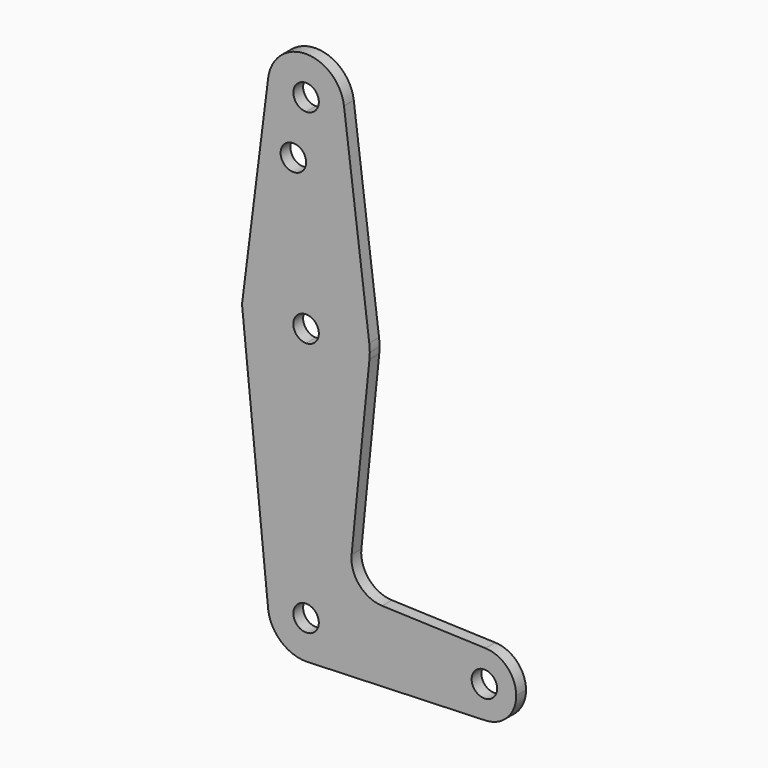
from build123d import *

# Parameters (mm, degrees)
F0_R     = 3.175
F1_DEPTH = 3.048
F2_DEPTH = 3.048


with BuildPart() as f1:
    # F0 (on Front) → F1 (new body)
    with BuildSketch(Plane.XZ):
        with BuildLine():
            ThreePointArc((0, 104.775), (6.7351920908, 107.5648079092), (9.525, 114.3))
            ThreePointArc((9.525, 114.3), (9.5063048942, 114.896483242), (9.4502929642, 115.490625))
            ThreePointArc((9.4502929642, 115.490625), (0, 123.825), (-9.4502929642, 115.490625))
            ThreePointArc((-9.4502929642, 115.490625), (-7.14375, 107.9998046905), (0, 104.775))
        make_face()
        with BuildLine():
            ThreePointArc((3.175, 114.3), (2.2450640303, 112.0549359697), (0, 111.125))
            ThreePointArc((0, 111.125), (-2.2450640303, 116.5450640303), (3.175, 114.3))
        make_face(mode=Mode.SUBTRACT)
        with BuildLine():
            ThreePointArc((9.4502929642, 115.490625), (9.5063048942, 114.896483242), (9.525, 114.3))
            ThreePointArc((9.525, 114.3), (6.7351920908, 107.5648079092), (0, 104.775))
            Line((0, 104.775), (0, 100.0252))
            Line((0, 100.0252), (0, 79.375))
            ThreePointArc((0, 79.375), (10.5003255158, 75.40625), (15.7504882737, 65.484375))
            Line((15.7504882737, 65.484375), (9.4502929642, 115.490625))
        make_face()
        with BuildLine():
            Line((0, 100.0252), (0, 104.775))
            ThreePointArc((0, 104.775), (-7.14375, 107.9998046905), (-9.4502929642, 115.490625))
            Line((-9.4502929642, 115.490625), (-15.7504882747, 65.484374992))
            ThreePointArc((-15.7504882747, 65.484374992), (-10.5003255188, 75.4062499973), (0, 79.375))
            Line((0, 79.375), (0, 100.0252))
        make_face()
        with Locations((-3.175, 100.0252)):
            Circle(F0_R, mode=Mode.SUBTRACT)
        with BuildLine():
            ThreePointArc((15.875, 63.5), (15.8438414904, 64.4941387366), (15.7504882737, 65.484375))
            ThreePointArc((15.7504882737, 65.484375), (10.5003255158, 75.40625), (0, 79.375))
            Line((0, 79.375), (0, 66.675))
            ThreePointArc((0, 66.675), (2.2450640303, 65.7450640303), (3.175, 63.5))
            ThreePointArc((3.175, 63.5), (2.2450640303, 61.2549359697), (0, 60.325))
            Line((0, 60.325), (0, 47.625))
            ThreePointArc((0, 47.625), (10.6492737428, 51.7267849017), (15.7954255641, 61.9125))
            ThreePointArc((15.7954255641, 61.9125), (15.8550939106, 62.7052534459), (15.875, 63.5))
        make_face()
        with BuildLine():
            ThreePointArc((0, 79.375), (-10.5003255188, 75.4062499973), (-15.7504882747, 65.484374992))
            ThreePointArc((-15.7504882747, 65.484374992), (-15.8737438174, 63.6997053324), (-15.795425534, 61.9124997009))
            ThreePointArc((-15.795425534, 61.9124997009), (-10.6492736314, 51.7267848009), (0, 47.625))
            Line((0, 47.625), (0, 60.325))
            ThreePointArc((0, 60.325), (-3.175, 63.5), (0, 66.675))
            Line((0, 66.675), (0, 79.375))
        make_face()
        with BuildLine():
            ThreePointArc((-15.795425534, 61.9124997009), (-15.8737438174, 63.6997053324), (-15.7504882747, 65.484374992))
            Line((-15.7504882747, 65.484374992), (-15.9751747256, 63.7009815757))
            Line((-15.9751747256, 63.7009815757), (-15.795425534, 61.9124997009))
        make_face()
        with BuildLine():
            ThreePointArc((0, 47.625), (-10.6492736314, 51.7267848009), (-15.795425534, 61.9124997009))
            Line((-15.795425534, 61.9124997009), (-9.5725053384, -0.0047744662))
            Line((-9.5725053384, -0.0047744662), (-9.525, 0))
            ThreePointArc((-9.525, 0), (-6.7351920908, 6.7351920908), (0, 9.525))
            Line((0, 9.525), (0, 47.625))
        make_face()
        with BuildLine():
            Line((11.3411865923, 17.5933818124), (15.7954255641, 61.9125))
            ThreePointArc((15.7954255641, 61.9125), (10.6492737428, 51.7267849017), (0, 47.625))
            Line((0, 47.625), (0, 9.525))
            ThreePointArc((0, 9.525), (6.7351920908, 6.7351920908), (9.525, 0))
            Line((9.525, 0), (36.5125, 0))
            ThreePointArc((36.5125, 0), (38.9384772185, 5.7120069047), (44.7334821429, 7.9324362036))
            Line((44.7334821429, 7.9324362036), (18.9676000005, 8.8532337108))
            ThreePointArc((18.9676000005, 8.8532337108), (13.2611998974, 11.5713591498), (11.3411865923, 17.5933818124))
        make_face()
        with BuildLine():
            Line((0, 3.175), (0, 9.525))
            ThreePointArc((0, 9.525), (-6.7351920908, 6.7351920908), (-9.525, 0))
            ThreePointArc((-9.525, 0), (-6.7351920908, -6.7351920908), (0, -9.525))
            Line((0, -9.525), (0.6773435479, -9.500885786))
            ThreePointArc((0.6773435479, -9.500885786), (6.9705567315, -6.4912990883), (9.525, 0))
            Line((9.525, 0), (3.175, 0))
            ThreePointArc((3.175, 0), (-2.2450640303, -2.2450640303), (0, 3.175))
        make_face()
        with BuildLine():
            Line((36.5125, 0), (9.525, 0))
            ThreePointArc((9.525, 0), (6.9705567315, -6.4912990883), (0.6773435479, -9.500885786))
            Line((0.6773435479, -9.500885786), (44.7324052746, -7.9324746146))
            ThreePointArc((44.7324052746, -7.9324746146), (38.9380895153, -5.7116327839), (36.5125, 0))
        make_face()
        with BuildLine():
            Line((0.6773435479, -9.500885786), (0, -9.525))
            ThreePointArc((0, -9.525), (0.3388863295, -9.5189695375), (0.6773435479, -9.500885786))
        make_face()
        with BuildLine():
            ThreePointArc((52.3875, 0), (50.1620069047, 5.5115227815), (44.7334821429, 7.9324362036))
            ThreePointArc((44.7334821429, 7.9324362036), (38.9384772185, 5.7120069047), (36.5125, 0))
            ThreePointArc((36.5125, 0), (38.9380895153, -5.7116327839), (44.7324052746, -7.9324746146))
            ThreePointArc((44.7324052746, -7.9324746146), (50.1616327839, -5.5119104847), (52.3875, 0))
        make_face()
        with BuildLine():
            ThreePointArc((47.625, 0), (44.45, -3.175), (41.275, 0))
            ThreePointArc((41.275, 0), (44.45, 3.175), (47.625, 0))
        make_face(mode=Mode.SUBTRACT)
        with BuildLine():
            ThreePointArc((9.525, 0), (6.7351920908, 6.7351920908), (0, 9.525))
            Line((0, 9.525), (0, 3.175))
            ThreePointArc((0, 3.175), (2.2450640303, 2.2450640303), (3.175, 0))
            Line((3.175, 0), (9.525, 0))
        make_face()
    extrude(amount=F1_DEPTH)

    # F0 (on Front) → F2 (join)
    with BuildSketch(Plane.XZ):
        with BuildLine():
            ThreePointArc((0, 104.775), (6.7351920908, 107.5648079092), (9.525, 114.3))
            ThreePointArc((9.525, 114.3), (9.5063048942, 114.896483242), (9.4502929642, 115.490625))
            ThreePointArc((9.4502929642, 115.490625), (0, 123.825), (-9.4502929642, 115.490625))
            ThreePointArc((-9.4502929642, 115.490625), (-7.14375, 107.9998046905), (0, 104.775))
        make_face()
        with BuildLine():
            ThreePointArc((3.175, 114.3), (2.2450640303, 112.0549359697), (0, 111.125))
            ThreePointArc((0, 111.125), (-2.2450640303, 116.5450640303), (3.175, 114.3))
        make_face(mode=Mode.SUBTRACT)
        with BuildLine():
            ThreePointArc((9.4502929642, 115.490625), (9.5063048942, 114.896483242), (9.525, 114.3))
            ThreePointArc((9.525, 114.3), (6.7351920908, 107.5648079092), (0, 104.775))
            Line((0, 104.775), (0, 100.0252))
            Line((0, 100.0252), (0, 79.375))
            ThreePointArc((0, 79.375), (10.5003255158, 75.40625), (15.7504882737, 65.484375))
            Line((15.7504882737, 65.484375), (9.4502929642, 115.490625))
        make_face()
        with BuildLine():
            Line((0, 100.0252), (0, 104.775))
            ThreePointArc((0, 104.775), (-7.14375, 107.9998046905), (-9.4502929642, 115.490625))
            Line((-9.4502929642, 115.490625), (-15.7504882747, 65.484374992))
            ThreePointArc((-15.7504882747, 65.484374992), (-10.5003255188, 75.4062499973), (0, 79.375))
            Line((0, 79.375), (0, 100.0252))
        make_face()
        with Locations((-3.175, 100.0252)):
            Circle(F0_R, mode=Mode.SUBTRACT)
        with BuildLine():
            ThreePointArc((15.875, 63.5), (15.8438414904, 64.4941387366), (15.7504882737, 65.484375))
            ThreePointArc((15.7504882737, 65.484375), (10.5003255158, 75.40625), (0, 79.375))
            Line((0, 79.375), (0, 66.675))
            ThreePointArc((0, 66.675), (2.2450640303, 65.7450640303), (3.175, 63.5))
            ThreePointArc((3.175, 63.5), (2.2450640303, 61.2549359697), (0, 60.325))
            Line((0, 60.325), (0, 47.625))
            ThreePointArc((0, 47.625), (10.6492737428, 51.7267849017), (15.7954255641, 61.9125))
            ThreePointArc((15.7954255641, 61.9125), (15.8550939106, 62.7052534459), (15.875, 63.5))
        make_face()
        with BuildLine():
            ThreePointArc((0, 79.375), (-10.5003255188, 75.4062499973), (-15.7504882747, 65.484374992))
            ThreePointArc((-15.7504882747, 65.484374992), (-15.8737438174, 63.6997053324), (-15.795425534, 61.9124997009))
            ThreePointArc((-15.795425534, 61.9124997009), (-10.6492736314, 51.7267848009), (0, 47.625))
            Line((0, 47.625), (0, 60.325))
            ThreePointArc((0, 60.325), (-3.175, 63.5), (0, 66.675))
            Line((0, 66.675), (0, 79.375))
        make_face()
        with BuildLine():
            ThreePointArc((-15.795425534, 61.9124997009), (-15.8737438174, 63.6997053324), (-15.7504882747, 65.484374992))
            Line((-15.7504882747, 65.484374992), (-15.9751747256, 63.7009815757))
            Line((-15.9751747256, 63.7009815757), (-15.795425534, 61.9124997009))
        make_face()
        with BuildLine():
            ThreePointArc((0, 47.625), (-10.6492736314, 51.7267848009), (-15.795425534, 61.9124997009))
            Line((-15.795425534, 61.9124997009), (-9.5725053384, -0.0047744662))
            Line((-9.5725053384, -0.0047744662), (-9.525, 0))
            ThreePointArc((-9.525, 0), (-6.7351920908, 6.7351920908), (0, 9.525))
            Line((0, 9.525), (0, 47.625))
        make_face()
        with BuildLine():
            Line((11.3411865923, 17.5933818124), (15.7954255641, 61.9125))
            ThreePointArc((15.7954255641, 61.9125), (10.6492737428, 51.7267849017), (0, 47.625))
            Line((0, 47.625), (0, 9.525))
            ThreePointArc((0, 9.525), (6.7351920908, 6.7351920908), (9.525, 0))
            Line((9.525, 0), (36.5125, 0))
            ThreePointArc((36.5125, 0), (38.9384772185, 5.7120069047), (44.7334821429, 7.9324362036))
            Line((44.7334821429, 7.9324362036), (18.9676000005, 8.8532337108))
            ThreePointArc((18.9676000005, 8.8532337108), (13.2611998974, 11.5713591498), (11.3411865923, 17.5933818124))
        make_face()
        with BuildLine():
            Line((0, 3.175), (0, 9.525))
            ThreePointArc((0, 9.525), (-6.7351920908, 6.7351920908), (-9.525, 0))
            ThreePointArc((-9.525, 0), (-6.7351920908, -6.7351920908), (0, -9.525))
            Line((0, -9.525), (0.6773435479, -9.500885786))
            ThreePointArc((0.6773435479, -9.500885786), (6.9705567315, -6.4912990883), (9.525, 0))
            Line((9.525, 0), (3.175, 0))
            ThreePointArc((3.175, 0), (-2.2450640303, -2.2450640303), (0, 3.175))
        make_face()
        with BuildLine():
            Line((36.5125, 0), (9.525, 0))
            ThreePointArc((9.525, 0), (6.9705567315, -6.4912990883), (0.6773435479, -9.500885786))
            Line((0.6773435479, -9.500885786), (44.7324052746, -7.9324746146))
            ThreePointArc((44.7324052746, -7.9324746146), (38.9380895153, -5.7116327839), (36.5125, 0))
        make_face()
        with BuildLine():
            Line((0.6773435479, -9.500885786), (0, -9.525))
            ThreePointArc((0, -9.525), (0.3388863295, -9.5189695375), (0.6773435479, -9.500885786))
        make_face()
        with BuildLine():
            ThreePointArc((52.3875, 0), (50.1620069047, 5.5115227815), (44.7334821429, 7.9324362036))
            ThreePointArc((44.7334821429, 7.9324362036), (38.9384772185, 5.7120069047), (36.5125, 0))
            ThreePointArc((36.5125, 0), (38.9380895153, -5.7116327839), (44.7324052746, -7.9324746146))
            ThreePointArc((44.7324052746, -7.9324746146), (50.1616327839, -5.5119104847), (52.3875, 0))
        make_face()
        with BuildLine():
            ThreePointArc((47.625, 0), (44.45, -3.175), (41.275, 0))
            ThreePointArc((41.275, 0), (44.45, 3.175), (47.625, 0))
        make_face(mode=Mode.SUBTRACT)
    extrude(amount=F2_DEPTH)


solid = f1.part
